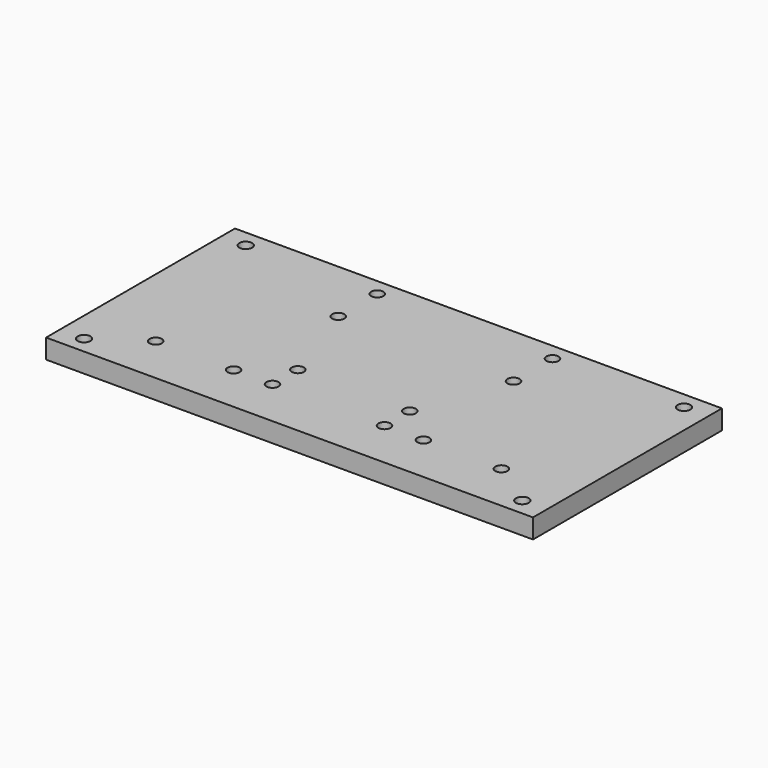
from build123d import *

# Parameters (mm, degrees)
SKETCH_W   = 97
SKETCH_H   = 200
SKETCH_R   = 2.5
SKETCH_R_2 = 2.625
PAD_DEPTH  = 8


with BuildPart() as part:
    # Sketch → Pad (new body)
    with BuildSketch(Plane(origin=(0, 0, 0), x_dir=(0, 1, 0), z_dir=(0, 0, 1))):
        Rectangle(SKETCH_W, SKETCH_H)
        with Locations((-28.5, 71)):
            Circle(SKETCH_R, mode=Mode.SUBTRACT)
        with Locations((-28.5, 39)):
            Circle(SKETCH_R, mode=Mode.SUBTRACT)
        with Locations((-28.5, -39)):
            Circle(SKETCH_R, mode=Mode.SUBTRACT)
        with Locations((-28.5, -71)):
            Circle(SKETCH_R, mode=Mode.SUBTRACT)
        with Locations((-28.5, 23)):
            Circle(SKETCH_R, mode=Mode.SUBTRACT)
        with Locations((-15.5, 23)):
            Circle(SKETCH_R, mode=Mode.SUBTRACT)
        with Locations((-28.5, -23)):
            Circle(SKETCH_R, mode=Mode.SUBTRACT)
        with Locations((-15.5, -23)):
            Circle(SKETCH_R, mode=Mode.SUBTRACT)
        with Locations((-41.5, 90)):
            Circle(SKETCH_R_2, mode=Mode.SUBTRACT)
        with Locations((41.5, 90)):
            Circle(SKETCH_R_2, mode=Mode.SUBTRACT)
        with Locations((-41.5, -90)):
            Circle(SKETCH_R_2, mode=Mode.SUBTRACT)
        with Locations((41.5, -90)):
            Circle(SKETCH_R_2, mode=Mode.SUBTRACT)
        with Locations((21.5, 36)):
            Circle(SKETCH_R, mode=Mode.SUBTRACT)
        with Locations((41.5, 36)):
            Circle(SKETCH_R, mode=Mode.SUBTRACT)
        with Locations((21.5, -36)):
            Circle(SKETCH_R, mode=Mode.SUBTRACT)
        with Locations((41.5, -36)):
            Circle(SKETCH_R, mode=Mode.SUBTRACT)
    extrude(amount=PAD_DEPTH)


solid = part.part
